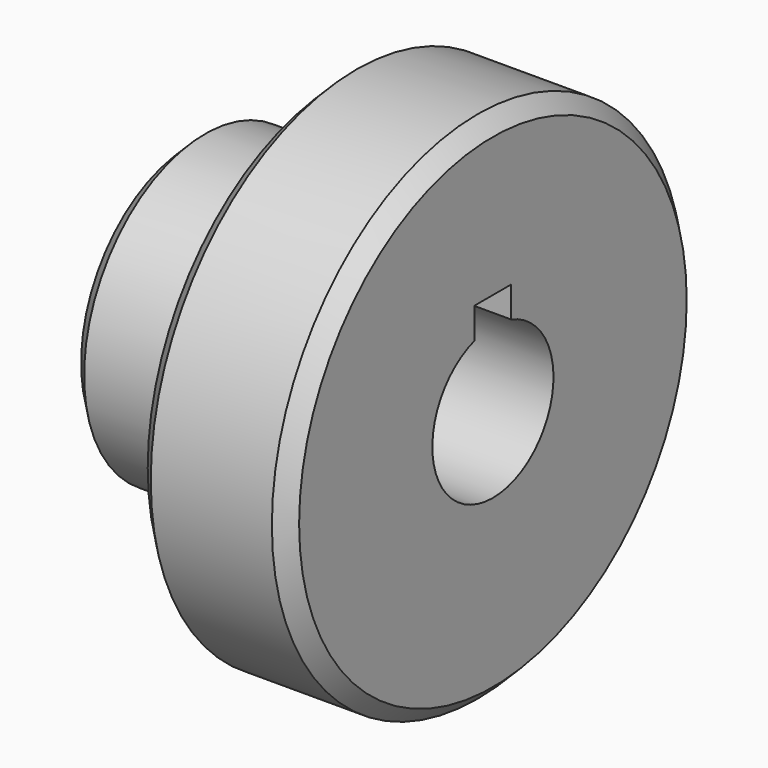
from build123d import *

# Parameters (mm, degrees)
F2_SIZE  = 1
F4_DEPTH = 20


with BuildPart() as f1:
    # F0 (on Top) → F1 (revolve)
    with BuildSketch(Plane.XY):
        Polygon((0, 10), (0, 5), (20, 5), (20, 17), (10, 17), (10, 10), align=None)
    revolve(axis=Axis((38.073346, 0, 0), (1, 0, 0)))

    # F2
    f2_edges = [f1.edges().sort_by_distance(p)[0] for p in [
        (0, -10, 0),
        (10, -17, 0),
        (20, -17, 0),
    ]]
    chamfer(f2_edges, length=F2_SIZE)

    # F3 (on face) → F4 (cut)
    with BuildSketch(Plane(origin=(0, 0, 0), x_dir=(0, -1, 0), z_dir=(-1, 0, 0))):
        with BuildLine():
            Line((1.5, 6.8), (0, 6.8))
            Line((0, 6.8), (-1.5, 6.8))
            Line((-1.5, 6.8), (-1.5, 4.769696))
            ThreePointArc((-1.5, 4.769696), (0, 5), (1.5, 4.769696))
            Line((1.5, 4.769696), (1.5, 6.8))
        make_face()
    extrude(amount=-F4_DEPTH, mode=Mode.SUBTRACT)


solid = f1.part
